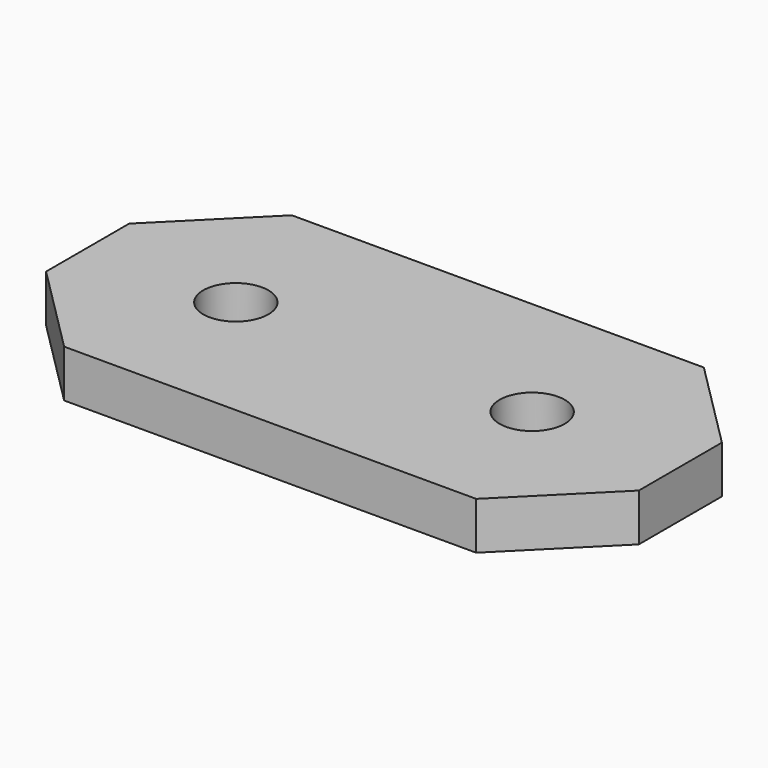
from build123d import *

# Parameters (mm, degrees)
F0_W     = 50
F0_H     = 24
F0_R     = 2.75
F1_DEPTH = 4
F2_SIZE  = 7.62


with BuildPart() as f1:
    # F0 (on Top) → F1 (new body)
    with BuildSketch(Plane.XY):
        Rectangle(F0_W, F0_H)
        with Locations((-12.5, 0)):
            Circle(F0_R, mode=Mode.SUBTRACT)
        with BuildLine():
            ThreePointArc((15.2468, 0), (12.4968, -2.75), (9.7468, 0))
            ThreePointArc((9.7468, 0), (12.4968, 2.75), (15.2468, 0))
        make_face(mode=Mode.SUBTRACT)
    extrude(amount=F1_DEPTH)

    # F2
    f2_edges = [f1.edges().sort_by_distance(p)[0] for p in [
        (-25, 12, 2),
        (-25, -12, 2),
        (25, -12, 2),
        (25, 12, 2),
    ]]
    chamfer(f2_edges, length=F2_SIZE)


solid = f1.part
